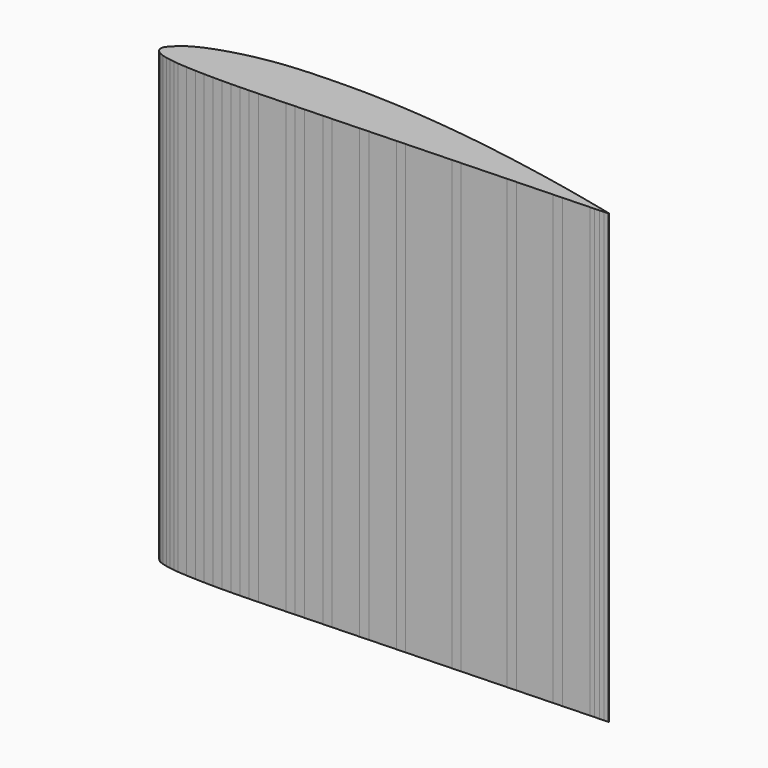
from build123d import *

# Parameters (mm, degrees)
F1_DEPTH = 150


with BuildPart() as f1:
    # F0 (on Top) → F1 (new body)
    with BuildSketch(Plane.XY):
        Polygon((75.000358, -1.240587), (75.000358, -1.060069), (73.499726, -0.700405), (72.000364, -0.350393), (70.499732, -0.000356), (69.00037, 0.348285), (66.000376, 1.038682), (63.000636, 1.720825), (60.000642, 2.380894), (57.000648, 3.018917), (54.000654, 3.650082), (51.00066, 4.26052), (48.000412, 4.850333), (45.000418, 5.430495), (42.000424, 5.988609), (39.00043, 6.539814), (36.000436, 7.070369), (33.000442, 7.570597), (30.000702, 8.059801), (27.000708, 8.540775), (24.000714, 8.988577), (21.00072, 9.419869), (18.000726, 9.829317), (15.000732, 10.208031), (12.000738, 10.570489), (9.00049, 10.898657), (6.000496, 11.208537), (3.000502, 11.480063), (0.000508, 11.730761), (-2.999232, 11.949963), (-5.999226, 12.148337), (-8.99922, 12.309627), (-11.999214, 12.428245), (-14.999208, 12.528829), (-17.999202, 12.578359), (-20.999196, 12.589281), (-23.99919, 12.578359), (-26.999438, 12.528829), (-29.999432, 12.450343), (-32.998918, 12.349505), (-35.999166, 12.209043), (-38.99916, 12.018797), (-41.999154, 11.769369), (-44.999148, 11.440185), (-47.999142, 11.010163), (-50.999136, 10.489209), (-53.99913, 9.869195), (-56.999099, 9.138691), (-59.999118, 8.298205), (-62.999087, 7.310145), (-65.999081, 6.160872), (-67.499763, 5.488381), (-68.999075, 4.720793), (-70.499757, 3.798875), (-71.999069, 2.66065), (-73.19932, 1.530655), (-73.800132, 0.910514), (-74.399597, 0.18984), (-74.700003, -0.280111), (-74.850219, -0.590169), (-74.919103, -0.800989), (-74.999037, -1.151001), (-74.919103, -1.849679), (-74.850219, -2.039823), (-74.700003, -2.319579), (-74.399597, -2.730246), (-73.800132, -3.289732), (-73.19932, -3.700399), (-71.999069, -4.189603), (-70.499757, -4.539615), (-68.999075, -4.830369), (-67.499763, -5.060493), (-65.999081, -5.220386), (-62.999087, -5.420182), (-59.999118, -5.56072), (-56.999099, -5.639308), (-53.99913, -5.69026), (-50.999136, -5.69026), (-47.999142, -5.659958), (-44.999148, -5.599328), (-41.999154, -5.520766), (-38.99916, -5.43118), (-29.999432, -5.099101), (-26.999438, -4.979213), (-23.99919, -4.87172), (-17.999202, -4.651248), (-14.999208, -4.550613), (-11.999214, -4.440377), (-5.999226, -4.219905), (-2.999232, -4.100017), (6.000496, -3.770655), (9.00049, -3.660419), (24.000714, -3.110586), (27.000708, -3.00035), (42.000424, -2.449119), (45.000418, -2.341626), (57.000648, -1.900657), (60.000642, -1.790421), (69.00037, -1.461059), (70.499732, -1.410081), (72.000364, -1.349451), (73.499726, -1.290193), align=None)
    extrude(amount=F1_DEPTH)


solid = f1.part
